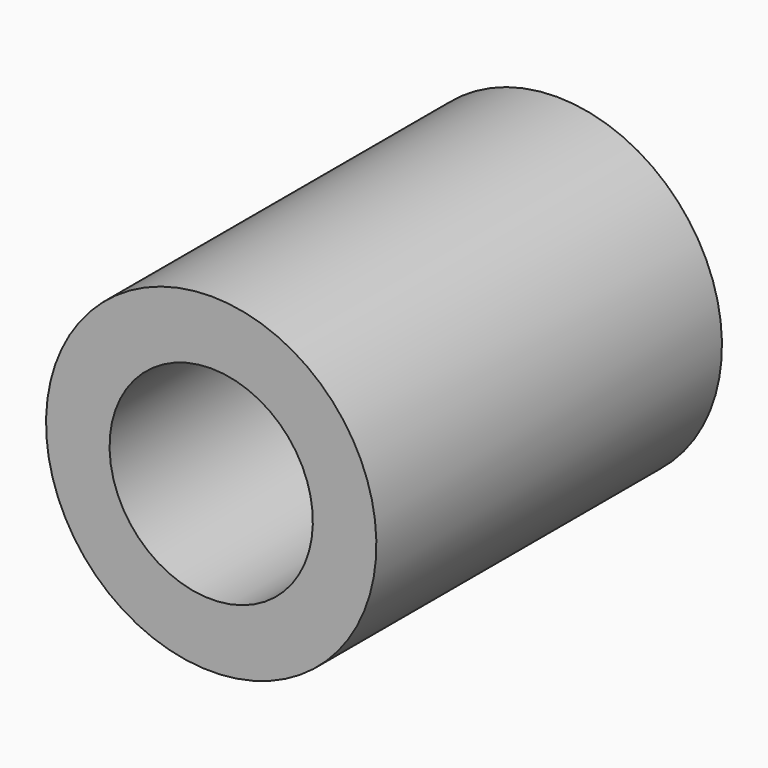
from build123d import *

# Parameters (mm, degrees)
F0_W = 54.4
F0_H = 8


with BuildPart() as f1:
    # F0 (on Right) → F1 (revolve)
    with BuildSketch(Plane.YZ):
        Polygon((32.768668, 12.7), (32.768668, 0), (44.768668, 0), (44.768668, 12.7), (41.118668, 12.7), (41.118668, 9.7), (36.418668, 9.7), (36.418668, 12.7), align=None)
    revolve(axis=Axis((0, 23.731925, 0), (0, 1, 0)))


with BuildPart() as f2:
    # F0 (on Right) → F2 (revolve)
    with BuildSketch(Plane.YZ):
        with Locations((27.2, 16.8)):
            Rectangle(F0_W, F0_H)
        with Locations((27.2, 16.8)):
            Rectangle(F0_W, F0_H)
    revolve(axis=Axis((0, 23.731925, 0), (0, 1, 0)))


solid = Compound([f1.part, f2.part])
